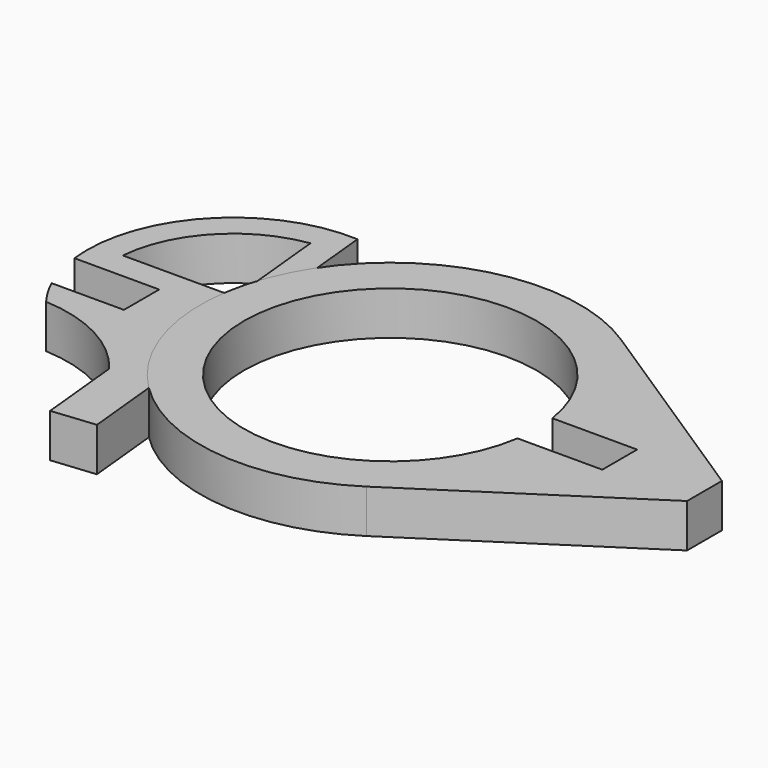
from build123d import *

# Parameters (mm, degrees)
F3_DEPTH = 8
F4_DEPTH = 8


with BuildPart() as f3:
    # F2 (on Top) → F3 (new body)
    with BuildSketch(Plane.XY):
        with BuildLine():
            Line((-58.0159330708, 0), (-42.4409686032, 0))
            Line((-42.4409686032, 0), (-42.4409686032, -8.1))
            Line((-42.4409686032, -8.1), (-55.7378476813, -8.1))
            ThreePointArc((-55.7378476813, -8.1), (-54.3748902361, -10.6815603734), (-52.7398805322, -13.1))
            ThreePointArc((-52.7398805322, -13.1), (-41.5307745311, -16.1759322479), (-32.6700269468, -23.6987355009))
            Line((-32.6700269468, -23.6987355009), (-31.1202600587, -39.1964043823))
            Line((-31.1202600587, -39.1964043823), (-23.159962537, -38.4003746301))
            Line((-23.159962537, -38.4003746301), (-24.7097294251, -22.9027057487))
            Line((-24.7097294251, -22.9027057487), (-27.5, 5))
            Line((-27.5, 5), (-29.996672723, 29.9667272295))
            ThreePointArc((-29.996672723, 29.9667272295), (-50.9574402475, 21.4827629536), (-58.0159330708, 0))
        make_face()
        with BuildLine():
            Line((-34.4772799899, 24.7727998988), (-32.5, 5))
            Line((-32.5, 5), (-46.0044369102, 5))
            Line((-46.0044369102, 5), (-53.1195878173, 5))
            ThreePointArc((-53.1195878173, 5), (-47.2430709135, 18.1340929327), (-34.4772799899, 24.7727998988))
        make_face(mode=Mode.SUBTRACT)
    extrude(amount=F3_DEPTH)


with BuildPart() as f4:
    # F1 (on Top) → F4 (new body)
    with BuildSketch(Plane.XY):
        with BuildLine():
            ThreePointArc((34.6357942653, 4), (29.6495572621, 18.3450810451), (19.0378886491, 29.2095368018))
            ThreePointArc((19.0378886491, 29.2095368018), (-34.8660041357, 2.579e-07), (19.0378882169, -29.2095370834))
            ThreePointArc((19.0378882169, -29.2095370834), (29.6495571264, -18.3450812644), (34.6357942653, -4))
            Line((34.6357942653, -4), (26.5665612795, -4))
            ThreePointArc((26.5665612795, -4), (-26.8660041357, 0), (26.5665612795, 4))
            Line((26.5665612795, 4), (34.6357942653, 4))
        make_face()
        with BuildLine():
            Line((57.7164902146, -4), (57.7164902146, 0))
            Line((57.7164902146, 0), (57.7164902146, 4))
            Line((57.7164902146, 4), (19.0378886491, 29.2095368018))
            ThreePointArc((19.0378886491, 29.2095368018), (29.6495572621, 18.3450810451), (34.6357942653, 4))
            Line((34.6357942653, 4), (42.1415257471, 4))
            Line((42.1415257471, 4), (42.1415257471, -4))
            Line((42.1415257471, -4), (34.6357942653, -4))
            ThreePointArc((34.6357942653, -4), (29.6495571264, -18.3450812644), (19.0378882169, -29.2095370834))
            Line((19.0378882169, -29.2095370834), (57.7164902146, -4))
        make_face()
    extrude(amount=F4_DEPTH)


solid = Compound([f3.part, f4.part])
